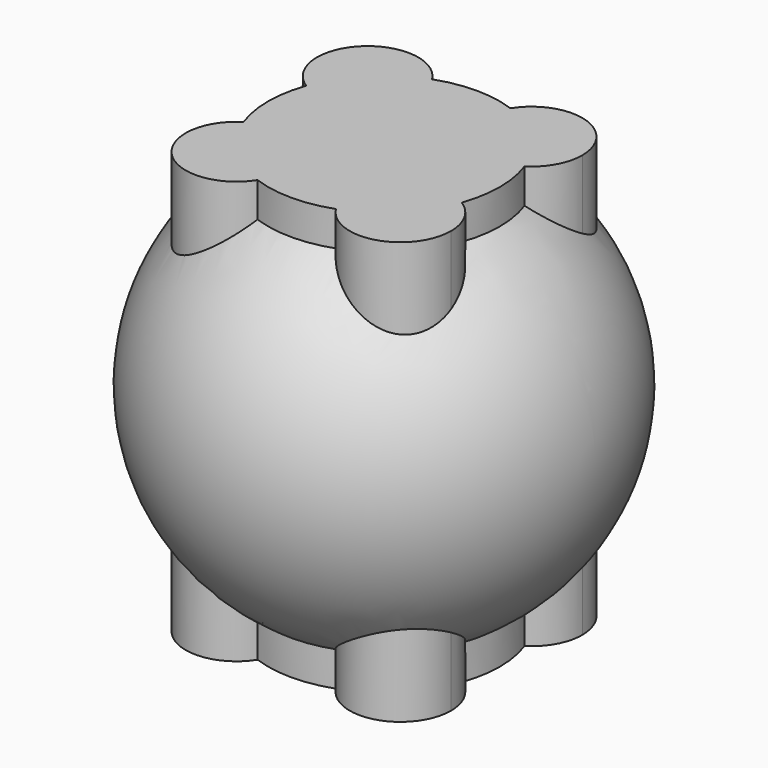
from build123d import *

# Parameters (mm, degrees)
F4_DEPTH = 50
F5_DEPTH = 50


with BuildPart() as f1:
    # F0 (on Front) → F1 (revolve)
    with BuildSketch(Plane.XZ):
        with BuildLine():
            Line((-25, 0), (25, 0))
            ThreePointArc((25, 0), (0, 25), (-25, 0))
        make_face()
    revolve(axis=Axis((-0.71441, 0, 0), (1, 0, 0)))

    # F3 (on offset) → F4 (cut)
    with BuildSketch(Plane.XY.offset(25)):
        with BuildLine():
            ThreePointArc((-5.465413, 5.465413), (-4.164777, 7.411953), (-3.708054, 9.708054))
            ThreePointArc((-3.708054, 9.708054), (-3.945976, 11.380914), (-4.640874, 12.921103))
            ThreePointArc((-4.640874, 12.921103), (-13.950695, 13.950695), (-12.921103, 4.640874))
            ThreePointArc((-12.921103, 4.640874), (-9.048523, 3.744413), (-5.465413, 5.465413))
        make_face()
        with BuildLine():
            ThreePointArc((-4.640874, 12.921103), (-3.945976, 11.380914), (-3.708054, 9.708054))
            ThreePointArc((-3.708054, 9.708054), (-4.164777, 7.411953), (-5.465413, 5.465413))
            Line((-5.465413, 5.465413), (0, 0))
            Line((0, 0), (5.465413, 5.465413))
            ThreePointArc((5.465413, 5.465413), (3.744413, 9.048523), (4.640874, 12.921103))
            ThreePointArc((4.640874, 12.921103), (0, 13.729262), (-4.640874, 12.921103))
        make_face()
        with BuildLine():
            Line((0, 0), (-5.465413, 5.465413))
            ThreePointArc((-5.465413, 5.465413), (-9.048523, 3.744413), (-12.921103, 4.640874))
            ThreePointArc((-12.921103, 4.640874), (-13.729262, 0), (-12.921103, -4.640874))
            ThreePointArc((-12.921103, -4.640874), (-9.048523, -3.744413), (-5.465413, -5.465413))
            Line((-5.465413, -5.465413), (0, 0))
        make_face()
        with BuildLine():
            ThreePointArc((15.708054, 9.708054), (11.380914, 15.470132), (4.640874, 12.921103))
            ThreePointArc((4.640874, 12.921103), (3.744413, 9.048523), (5.465413, 5.465413))
            ThreePointArc((5.465413, 5.465413), (9.048523, 3.744413), (12.921103, 4.640874))
            ThreePointArc((12.921103, 4.640874), (14.965349, 6.81654), (15.708054, 9.708054))
        make_face()
        with BuildLine():
            Line((5.465413, 5.465413), (0, 0))
            Line((0, 0), (5.465413, -5.465413))
            ThreePointArc((5.465413, -5.465413), (9.048523, -3.744413), (12.921103, -4.640874))
            ThreePointArc((12.921103, -4.640874), (13.729262, 0), (12.921103, 4.640874))
            ThreePointArc((12.921103, 4.640874), (9.048523, 3.744413), (5.465413, 5.465413))
        make_face()
        with BuildLine():
            Line((5.465413, -5.465413), (0, 0))
            Line((0, 0), (-5.465413, -5.465413))
            ThreePointArc((-5.465413, -5.465413), (-4.164777, -7.411953), (-3.708054, -9.708054))
            ThreePointArc((-3.708054, -9.708054), (-3.945976, -11.380914), (-4.640874, -12.921103))
            ThreePointArc((-4.640874, -12.921103), (0, -13.729262), (4.640874, -12.921103))
            ThreePointArc((4.640874, -12.921103), (3.744413, -9.048523), (5.465413, -5.465413))
        make_face()
        with BuildLine():
            ThreePointArc((-5.465413, -5.465413), (-9.048523, -3.744413), (-12.921103, -4.640874))
            ThreePointArc((-12.921103, -4.640874), (-13.950695, -13.950695), (-4.640874, -12.921103))
            ThreePointArc((-4.640874, -12.921103), (-3.945976, -11.380914), (-3.708054, -9.708054))
            ThreePointArc((-3.708054, -9.708054), (-4.164777, -7.411953), (-5.465413, -5.465413))
        make_face()
        with BuildLine():
            ThreePointArc((12.921103, -4.640874), (9.048523, -3.744413), (5.465413, -5.465413))
            ThreePointArc((5.465413, -5.465413), (3.744413, -9.048523), (4.640874, -12.921103))
            ThreePointArc((4.640874, -12.921103), (11.380914, -15.470132), (15.708054, -9.708054))
            ThreePointArc((15.708054, -9.708054), (14.965349, -6.81654), (12.921103, -4.640874))
        make_face()
    extrude(amount=-F4_DEPTH, mode=Mode.SUBTRACT)

    # F3 (on offset) → F5 (join)
    with BuildSketch(Plane.XY.offset(25)):
        with BuildLine():
            ThreePointArc((-5.465413, 5.465413), (-4.164777, 7.411953), (-3.708054, 9.708054))
            ThreePointArc((-3.708054, 9.708054), (-3.945976, 11.380914), (-4.640874, 12.921103))
            ThreePointArc((-4.640874, 12.921103), (-13.950695, 13.950695), (-12.921103, 4.640874))
            ThreePointArc((-12.921103, 4.640874), (-9.048523, 3.744413), (-5.465413, 5.465413))
        make_face()
        with BuildLine():
            ThreePointArc((-4.640874, 12.921103), (-3.945976, 11.380914), (-3.708054, 9.708054))
            ThreePointArc((-3.708054, 9.708054), (-4.164777, 7.411953), (-5.465413, 5.465413))
            Line((-5.465413, 5.465413), (0, 0))
            Line((0, 0), (5.465413, 5.465413))
            ThreePointArc((5.465413, 5.465413), (3.744413, 9.048523), (4.640874, 12.921103))
            ThreePointArc((4.640874, 12.921103), (0, 13.729262), (-4.640874, 12.921103))
        make_face()
        with BuildLine():
            Line((0, 0), (-5.465413, 5.465413))
            ThreePointArc((-5.465413, 5.465413), (-9.048523, 3.744413), (-12.921103, 4.640874))
            ThreePointArc((-12.921103, 4.640874), (-13.729262, 0), (-12.921103, -4.640874))
            ThreePointArc((-12.921103, -4.640874), (-9.048523, -3.744413), (-5.465413, -5.465413))
            Line((-5.465413, -5.465413), (0, 0))
        make_face()
        with BuildLine():
            ThreePointArc((15.708054, 9.708054), (11.380914, 15.470132), (4.640874, 12.921103))
            ThreePointArc((4.640874, 12.921103), (3.744413, 9.048523), (5.465413, 5.465413))
            ThreePointArc((5.465413, 5.465413), (9.048523, 3.744413), (12.921103, 4.640874))
            ThreePointArc((12.921103, 4.640874), (14.965349, 6.81654), (15.708054, 9.708054))
        make_face()
        with BuildLine():
            Line((5.465413, 5.465413), (0, 0))
            Line((0, 0), (5.465413, -5.465413))
            ThreePointArc((5.465413, -5.465413), (9.048523, -3.744413), (12.921103, -4.640874))
            ThreePointArc((12.921103, -4.640874), (13.729262, 0), (12.921103, 4.640874))
            ThreePointArc((12.921103, 4.640874), (9.048523, 3.744413), (5.465413, 5.465413))
        make_face()
        with BuildLine():
            Line((5.465413, -5.465413), (0, 0))
            Line((0, 0), (-5.465413, -5.465413))
            ThreePointArc((-5.465413, -5.465413), (-4.164777, -7.411953), (-3.708054, -9.708054))
            ThreePointArc((-3.708054, -9.708054), (-3.945976, -11.380914), (-4.640874, -12.921103))
            ThreePointArc((-4.640874, -12.921103), (0, -13.729262), (4.640874, -12.921103))
            ThreePointArc((4.640874, -12.921103), (3.744413, -9.048523), (5.465413, -5.465413))
        make_face()
        with BuildLine():
            ThreePointArc((-5.465413, -5.465413), (-9.048523, -3.744413), (-12.921103, -4.640874))
            ThreePointArc((-12.921103, -4.640874), (-13.950695, -13.950695), (-4.640874, -12.921103))
            ThreePointArc((-4.640874, -12.921103), (-3.945976, -11.380914), (-3.708054, -9.708054))
            ThreePointArc((-3.708054, -9.708054), (-4.164777, -7.411953), (-5.465413, -5.465413))
        make_face()
        with BuildLine():
            ThreePointArc((12.921103, -4.640874), (9.048523, -3.744413), (5.465413, -5.465413))
            ThreePointArc((5.465413, -5.465413), (3.744413, -9.048523), (4.640874, -12.921103))
            ThreePointArc((4.640874, -12.921103), (11.380914, -15.470132), (15.708054, -9.708054))
            ThreePointArc((15.708054, -9.708054), (14.965349, -6.81654), (12.921103, -4.640874))
        make_face()
    extrude(amount=-F5_DEPTH)


solid = f1.part
